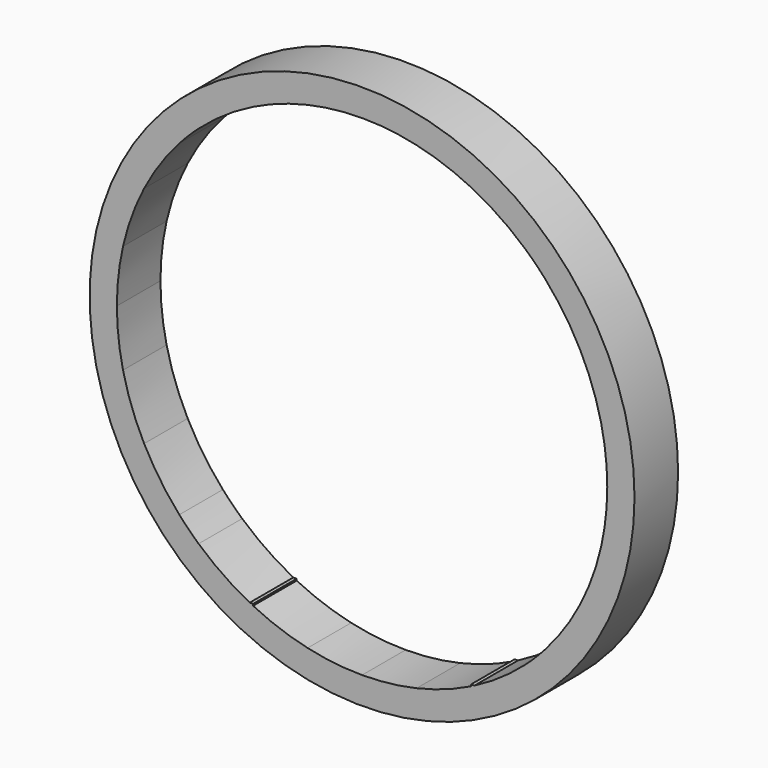
from build123d import *

# Parameters (mm, degrees)
F0_R     = 127
F1_DEPTH = 25.4
F2_W     = 25.4
F2_H     = 25.4
F3_DEPTH = 25.4


with BuildPart() as f1:
    # F0 (on Front) → F1 (new body)
    with BuildSketch(Plane.XZ):
        Circle(F0_R)
    extrude(amount=F1_DEPTH)

    # F2 (on face) → F3 (cut)
    with BuildSketch(Plane.XZ.offset(25.4)):
        with Locations((-38.1, 88.9)):
            Rectangle(F2_W, F2_H)
        with Locations((-12.7, 88.9)):
            Rectangle(F2_W, F2_H)
        with Locations((12.7, 88.9)):
            Rectangle(F2_W, F2_H)
        with Locations((38.1, 88.9)):
            Rectangle(F2_W, F2_H)
        Polygon((25.4, 51.1908603613), (50.8, 51.5817207227), (50.8, 76.2), (25.4, 76.2), align=None)
        Polygon((50.8, 51.5817207227), (76.2, 51.972581084), (76.2, 76.2), (50.8, 76.2), align=None)
        Polygon((76.2, 25.4), (76.2, 51.972581084), (50.8, 51.5817207227), (50.8, 25.4), align=None)
        with Locations((63.5, 12.7)):
            Rectangle(F2_W, F2_H)
        Polygon((101.6, 25.4), (101.6, 52.3634414453), (76.2, 51.972581084), (76.2, 25.4), align=None)
        with Locations((88.9, 12.7)):
            Rectangle(F2_W, F2_H)
        with Locations((88.9, -12.7)):
            Rectangle(F2_W, F2_H)
        with Locations((88.9, -38.1)):
            Rectangle(F2_W, F2_H)
        with Locations((63.5, -38.1)):
            Rectangle(F2_W, F2_H)
        with Locations((63.5, -63.5)):
            Rectangle(F2_W, F2_H)
        with Locations((38.1, -88.9)):
            Rectangle(F2_W, F2_H)
        with Locations((38.1, -63.5)):
            Rectangle(F2_W, F2_H)
        with Locations((12.7, -88.9)):
            Rectangle(F2_W, F2_H)
        with Locations((-12.7, -88.9)):
            Rectangle(F2_W, F2_H)
        with Locations((-38.1, -88.9)):
            Rectangle(F2_W, F2_H)
        with Locations((-38.1, -63.5)):
            Rectangle(F2_W, F2_H)
        with Locations((-63.5, -63.5)):
            Rectangle(F2_W, F2_H)
        with Locations((-63.5, -38.1)):
            Rectangle(F2_W, F2_H)
        with Locations((-63.5, -12.7)):
            Rectangle(F2_W, F2_H)
        with Locations((-88.9, -12.7)):
            Rectangle(F2_W, F2_H)
        with Locations((-88.9, 12.7)):
            Rectangle(F2_W, F2_H)
        with Locations((-63.5, 12.7)):
            Rectangle(F2_W, F2_H)
        Polygon((-76.2, 25.4), (-76.2, 51.972581084), (-101.6, 52.3634414453), (-101.6, 25.4), align=None)
        Polygon((-76.2, 51.972581084), (-50.8, 51.5817207227), (-50.8, 76.2), (-76.2, 76.2), align=None)
        Polygon((-50.8, 51.5817207227), (-25.4, 51.1908603613), (-25.4, 76.2), (-50.8, 76.2), align=None)
        Polygon((-25.4, 51.1908603613), (0, 50.8), (0, 76.2), (-25.4, 76.2), align=None)
        Polygon((0, 50.8), (25.4, 51.1908603613), (25.4, 76.2), (0, 76.2), align=None)
        Polygon((25.4, 25.4), (25.4, 51.1908603613), (0, 50.8), (0, 25.4), align=None)
        Polygon((-25.4, 25.4), (-25.4, 51.1908603613), (-50.8, 51.5817207227), (-50.8, 25.4), align=None)
        Polygon((-50.8, 25.4), (-50.8, 51.5817207227), (-76.2, 51.972581084), (-76.2, 25.4), align=None)
        Polygon((0, 25.4), (0, 50.8), (-25.4, 51.1908603613), (-25.4, 25.4), align=None)
        Polygon((50.8, 25.4), (50.8, 51.5817207227), (25.4, 51.1908603613), (25.4, 25.4), align=None)
        with Locations((38.1, 12.7)):
            Rectangle(F2_W, F2_H)
        with Locations((12.7, 12.7)):
            Rectangle(F2_W, F2_H)
        with Locations((-12.7, 12.7)):
            Rectangle(F2_W, F2_H)
        with Locations((-38.1, -12.7)):
            Rectangle(F2_W, F2_H)
        with Locations((-12.7, -12.7)):
            Rectangle(F2_W, F2_H)
        with Locations((12.7, -12.7)):
            Rectangle(F2_W, F2_H)
        with Locations((38.1, -12.7)):
            Rectangle(F2_W, F2_H)
        with Locations((63.5, -12.7)):
            Rectangle(F2_W, F2_H)
        with Locations((38.1, -38.1)):
            Rectangle(F2_W, F2_H)
        with Locations((12.7, -38.1)):
            Rectangle(F2_W, F2_H)
        with Locations((12.7, -63.5)):
            Rectangle(F2_W, F2_H)
        with Locations((-12.7, -63.5)):
            Rectangle(F2_W, F2_H)
        with Locations((-12.7, -38.1)):
            Rectangle(F2_W, F2_H)
        with Locations((-38.1, -38.1)):
            Rectangle(F2_W, F2_H)
        with BuildLine():
            Line((-101.6, 52.3634414453), (-76.2, 51.972581084))
            Line((-76.2, 51.972581084), (-76.2, 76.2))
            Line((-76.2, 76.2), (-85.1941899427, 76.2))
            ThreePointArc((-85.1941899427, 76.2), (-94.1544620824, 64.8029881254), (-101.6, 52.3634414453))
        make_face()
        with BuildLine():
            Line((-76.2, 76.2), (-76.2, 85.1941899427))
            ThreePointArc((-76.2, 85.1941899427), (-80.8223050896, 80.8223050896), (-85.1941899427, 76.2))
            Line((-85.1941899427, 76.2), (-76.2, 76.2))
        make_face()
        with BuildLine():
            Line((-50.8, 101.6), (-50.8, 102.3906734034))
            ThreePointArc((-50.8, 102.3906734034), (-64.0794800295, 94.6483504301), (-76.2, 85.1941899427))
            Line((-76.2, 85.1941899427), (-76.2, 76.2))
            Line((-76.2, 76.2), (-50.8, 76.2))
            Line((-50.8, 76.2), (-50.8, 101.6))
        make_face()
        with BuildLine():
            Line((-25.4, 101.6), (-25.4, 111.4420477199))
            ThreePointArc((-25.4, 111.4420477199), (-38.367849096, 107.667999683), (-50.8, 102.3906734034))
            Line((-50.8, 102.3906734034), (-50.8, 101.6))
            Line((-50.8, 101.6), (-25.4, 101.6))
        make_face()
        with BuildLine():
            Line((0, 101.6), (0, 114.3))
            ThreePointArc((0, 114.3), (-12.7801397805, 113.5832647321), (-25.4, 111.4420477199))
            Line((-25.4, 111.4420477199), (-25.4, 101.6))
            Line((-25.4, 101.6), (0, 101.6))
        make_face()
        with BuildLine():
            Line((25.4, 101.6), (25.4, 111.4420477199))
            ThreePointArc((25.4, 111.4420477199), (12.7801397805, 113.5832647321), (0, 114.3))
            Line((0, 114.3), (0, 101.6))
            Line((0, 101.6), (25.4, 101.6))
        make_face()
        with BuildLine():
            Line((50.8, 101.6), (50.8, 102.3906734034))
            ThreePointArc((50.8, 102.3906734034), (38.367849096, 107.667999683), (25.4, 111.4420477199))
            Line((25.4, 111.4420477199), (25.4, 101.6))
            Line((25.4, 101.6), (50.8, 101.6))
        make_face()
        with BuildLine():
            Line((76.2, 76.2), (76.2, 85.1941899427))
            ThreePointArc((76.2, 85.1941899427), (64.0794800295, 94.6483504301), (50.8, 102.3906734034))
            Line((50.8, 102.3906734034), (50.8, 101.6))
            Line((50.8, 101.6), (50.8, 76.2))
            Line((50.8, 76.2), (76.2, 76.2))
        make_face()
        with BuildLine():
            Line((76.2, 76.2), (85.1941899427, 76.2))
            ThreePointArc((85.1941899427, 76.2), (80.8223050896, 80.8223050896), (76.2, 85.1941899427))
            Line((76.2, 85.1941899427), (76.2, 76.2))
        make_face()
        with BuildLine():
            Line((76.2, 51.972581084), (101.6, 52.3634414453))
            ThreePointArc((101.6, 52.3634414453), (94.1544620824, 64.8029881254), (85.1941899427, 76.2))
            Line((85.1941899427, 76.2), (76.2, 76.2))
            Line((76.2, 76.2), (76.2, 51.972581084))
        make_face()
        with BuildLine():
            Line((101.6, 25.4), (111.4420477199, 25.4))
            ThreePointArc((111.4420477199, 25.4), (107.3707842842, 39.1918956187), (101.6, 52.3634414453))
            Line((101.6, 52.3634414453), (101.6, 25.4))
        make_face()
        with BuildLine():
            Line((101.6, 0), (114.3, 0))
            ThreePointArc((114.3, 0), (113.5832647321, 12.7801397805), (111.4420477199, 25.4))
            Line((111.4420477199, 25.4), (101.6, 25.4))
            Line((101.6, 25.4), (101.6, 0))
        make_face()
        with BuildLine():
            ThreePointArc((111.4420477199, -25.4), (113.5832647321, -12.7801397805), (114.3, 0))
            Line((114.3, 0), (101.6, 0))
            Line((101.6, 0), (101.6, -25.4))
            Line((101.6, -25.4), (111.4420477199, -25.4))
        make_face()
        with BuildLine():
            ThreePointArc((101.6, -52.3634414453), (107.3707842842, -39.1918956187), (111.4420477199, -25.4))
            Line((111.4420477199, -25.4), (101.6, -25.4))
            Line((101.6, -25.4), (101.6, -50.8))
            Line((101.6, -50.8), (101.6, -52.3634414453))
        make_face()
        with BuildLine():
            ThreePointArc((85.1941899427, -76.2), (94.1544620824, -64.8029881254), (101.6, -52.3634414453))
            Line((101.6, -52.3634414453), (101.6, -50.8))
            Line((101.6, -50.8), (76.2, -50.8))
            Line((76.2, -50.8), (76.2, -76.2))
            Line((76.2, -76.2), (85.1941899427, -76.2))
        make_face()
        with BuildLine():
            ThreePointArc((25.4, -111.4420477199), (38.367849096, -107.667999683), (50.8, -102.3906734034))
            Line((50.8, -102.3906734034), (50.8, -101.6))
            Line((50.8, -101.6), (25.4, -101.6))
            Line((25.4, -101.6), (25.4, -111.4420477199))
        make_face()
        with BuildLine():
            ThreePointArc((0, -114.3), (12.7801397805, -113.5832647321), (25.4, -111.4420477199))
            Line((25.4, -111.4420477199), (25.4, -101.6))
            Line((25.4, -101.6), (0, -101.6))
            Line((0, -101.6), (0, -114.3))
        make_face()
        with BuildLine():
            ThreePointArc((-25.4, -111.4420477199), (-12.7801397805, -113.5832647321), (0, -114.3))
            Line((0, -114.3), (0, -101.6))
            Line((0, -101.6), (-25.4, -101.6))
            Line((-25.4, -101.6), (-25.4, -111.4420477199))
        make_face()
        with BuildLine():
            ThreePointArc((-50.8, -102.3906734034), (-38.367849096, -107.667999683), (-25.4, -111.4420477199))
            Line((-25.4, -111.4420477199), (-25.4, -101.6))
            Line((-25.4, -101.6), (-50.8, -101.6))
            Line((-50.8, -101.6), (-50.8, -102.3906734034))
        make_face()
        with BuildLine():
            Line((-50.8, -101.6), (-50.8, -76.2))
            Line((-50.8, -76.2), (-76.2, -76.2))
            Line((-76.2, -76.2), (-76.2, -85.1941899427))
            ThreePointArc((-76.2, -85.1941899427), (-64.8029881254, -94.1544620824), (-52.3634414453, -101.6))
            Line((-52.3634414453, -101.6), (-50.8, -101.6))
        make_face()
        with BuildLine():
            Line((-76.2, -85.1941899427), (-76.2, -76.2))
            Line((-76.2, -76.2), (-85.1941899427, -76.2))
            ThreePointArc((-85.1941899427, -76.2), (-80.8223050896, -80.8223050896), (-76.2, -85.1941899427))
        make_face()
        with BuildLine():
            Line((-85.1941899427, -76.2), (-76.2, -76.2))
            Line((-76.2, -76.2), (-76.2, -50.8))
            Line((-76.2, -50.8), (-101.6, -50.8))
            Line((-101.6, -50.8), (-101.6, -52.3634414453))
            ThreePointArc((-101.6, -52.3634414453), (-94.1544620824, -64.8029881254), (-85.1941899427, -76.2))
        make_face()
        with Locations((-88.9, -38.1)):
            Rectangle(F2_W, F2_H)
        with BuildLine():
            Line((-101.6, -50.8), (-101.6, -25.4))
            Line((-101.6, -25.4), (-111.4420477199, -25.4))
            ThreePointArc((-111.4420477199, -25.4), (-107.3707842842, -39.1918956187), (-101.6, -52.3634414453))
            Line((-101.6, -52.3634414453), (-101.6, -50.8))
        make_face()
        with BuildLine():
            Line((-101.6, -25.4), (-101.6, 0))
            Line((-101.6, 0), (-114.3, 0))
            ThreePointArc((-114.3, 0), (-113.5832647321, -12.7801397805), (-111.4420477199, -25.4))
            Line((-111.4420477199, -25.4), (-101.6, -25.4))
        make_face()
        with BuildLine():
            Line((-114.3, 0), (-101.6, 0))
            Line((-101.6, 0), (-101.6, 25.4))
            Line((-101.6, 25.4), (-111.4420477199, 25.4))
            ThreePointArc((-111.4420477199, 25.4), (-113.5832647321, 12.7801397805), (-114.3, 0))
        make_face()
        with BuildLine():
            Line((-101.6, 25.4), (-101.6, 52.3634414453))
            ThreePointArc((-101.6, 52.3634414453), (-107.3707842842, 39.1918956187), (-111.4420477199, 25.4))
            Line((-111.4420477199, 25.4), (-101.6, 25.4))
        make_face()
        with Locations((-38.1, 12.7)):
            Rectangle(F2_W, F2_H)
        with BuildLine():
            ThreePointArc((52.3634414453, -101.6), (64.8029881254, -94.1544620824), (76.2, -85.1941899427))
            Line((76.2, -85.1941899427), (76.2, -76.2))
            Line((76.2, -76.2), (50.8, -76.2))
            Line((50.8, -76.2), (50.8, -101.6))
            Line((50.8, -101.6), (52.3634414453, -101.6))
        make_face()
        with BuildLine():
            ThreePointArc((76.2, -85.1941899427), (80.8223050896, -80.8223050896), (85.1941899427, -76.2))
            Line((85.1941899427, -76.2), (76.2, -76.2))
            Line((76.2, -76.2), (76.2, -85.1941899427))
        make_face()
    extrude(amount=-F3_DEPTH, mode=Mode.SUBTRACT)


solid = f1.part
